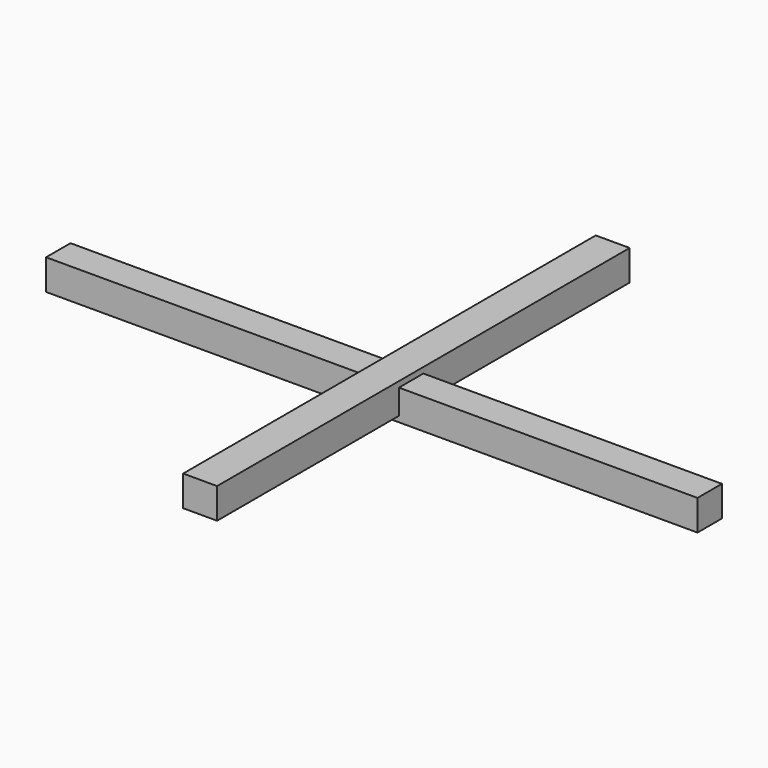
from build123d import *

# Parameters (mm, degrees)
F0_W     = 609.6
F0_H     = 28.575
F1_DEPTH = 28.575
F2_W     = 482.6
F2_H     = 28.575
F3_DEPTH = 31.75


with BuildPart() as f1:
    # F0 (on Front) → F1 (new body)
    with BuildSketch(Plane.XZ):
        with Locations((6.340188, -5.364967)):
            Rectangle(F0_W, F0_H)
    extrude(amount=F1_DEPTH)


with BuildPart() as f3:
    # F2 (on Right) → F3 (new body)
    with BuildSketch(Plane.YZ):
        Rectangle(F2_W, F2_H)
    extrude(amount=F3_DEPTH)


solid = Compound([f1.part, f3.part])
